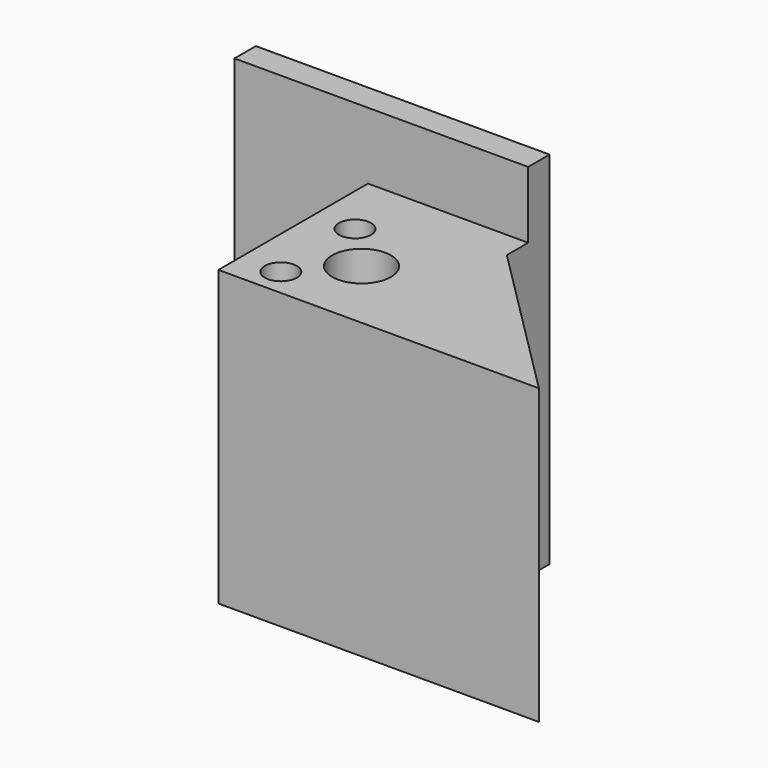
from build123d import *

# Parameters (mm, degrees)
SKETCH_R     = 1.2
SKETCH_R_2   = 2.2
PAD_DEPTH    = 22
SKETCH001_W  = 12
SKETCH001_H  = 22
PAD001_DEPTH = 4
SKETCH002_W  = 2
SKETCH002_H  = 22
PAD002_DEPTH = 10
SKETCH003_W  = 22
SKETCH003_H  = 2
PAD003_DEPTH = 5


with BuildPart() as part:
    # Sketch → Pad (new body)
    with BuildSketch(Plane.XY):
        Polygon((3.852875, 8.478223), (-8.147125, 8.478223), (-8.147125, -3.521777), (15.852875, -3.521777), align=None)
        with Locations((-5.147125, 5.518223)):
            Circle(SKETCH_R, mode=Mode.SUBTRACT)
        with Locations((-5.147125, -1.431777)):
            Circle(SKETCH_R, mode=Mode.SUBTRACT)
        with Locations((-1.907125, 2.078223)):
            Circle(SKETCH_R_2, mode=Mode.SUBTRACT)
    extrude(amount=PAD_DEPTH)

    # Sketch001 (on Face1 of Pad) → Pad001 (join)
    with BuildSketch(Plane(origin=(0, 8.478223, 0), x_dir=(-1, 0, 0), z_dir=(0, 1, 0))):
        with Locations((2.147125, 11)):
            Rectangle(SKETCH001_W, SKETCH001_H)
    extrude(amount=PAD001_DEPTH)

    # Sketch002 (on Face2 of Pad001) → Pad002 (join)
    with BuildSketch(Plane(origin=(-8.147125, 0, 0), x_dir=(0, -1, 0), z_dir=(-1, 0, 0))):
        with Locations((-11.478223, 11)):
            Rectangle(SKETCH002_W, SKETCH002_H)
    extrude(amount=PAD002_DEPTH)

    # Sketch003 (on Face8 of Pad002) → Pad003 (join)
    with BuildSketch(Plane.XY.offset(22)):
        with Locations((-7.147125, 11.478223)):
            Rectangle(SKETCH003_W, SKETCH003_H)
    extrude(amount=PAD003_DEPTH)


solid = part.part
